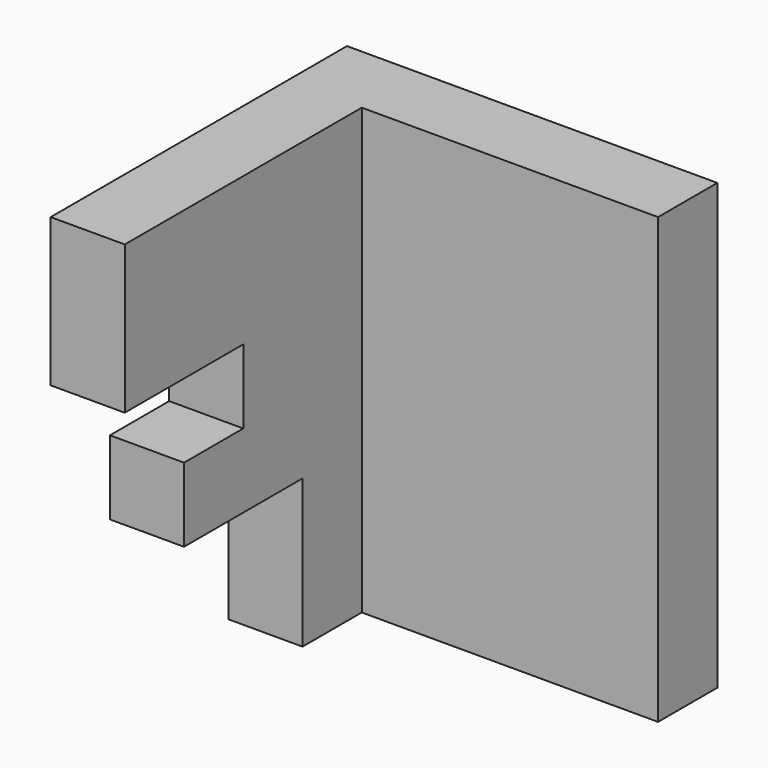
from build123d import *

# Parameters (mm, degrees)
F1_DEPTH = 12.7
F2_W     = 50.8
F2_H     = 76.2
F3_DEPTH = 12.7


with BuildPart() as f1:
    # F0 (on Right) → F1 (new body)
    with BuildSketch(Plane.YZ):
        Polygon((25.4, 41.681635), (-38.1, 41.681635), (-38.1, 16.281635), (-12.7, 16.281635), (-12.7, 3.581635), (-25.4, 3.581635), (-25.4, -9.118365), (0, -9.118365), (0, -34.518365), (25.4, -34.518365), align=None)
    extrude(amount=-F1_DEPTH)

    # F2 (on face) → F3 (join)
    with BuildSketch(Plane(origin=(0, 25.4, 0), x_dir=(-1, 0, 0), z_dir=(0, 1, 0))):
        with Locations((-25.4, 3.581635)):
            Rectangle(F2_W, F2_H)
    extrude(amount=-F3_DEPTH)


solid = f1.part
